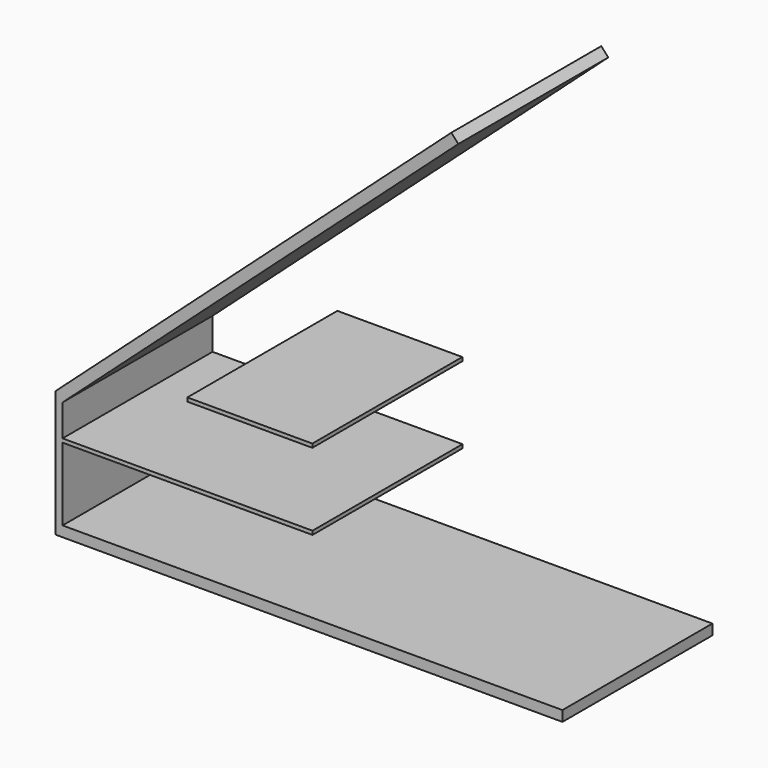
from build123d import *

# Parameters (mm, degrees)
F1_DEPTH = 900
F2_W     = 600
F2_H     = 18
F3_DEPTH = 900
F4_DEPTH = 900
F5_DEPTH = 900


with BuildPart() as f1:
    # F0 (on Front) → F1 (new body)
    with BuildSketch(Plane.XZ):
        Polygon((-1900, 520), (0, 2230), (-33.4482365811, 2267.1647073124), (-1933.4482365811, 557.1647073124), align=None)
        Polygon((-1900, -50), (-1900, 0), (-1900, 520), (-1933.4482365811, 557.1647073124), (-1933.4482365811, -50), align=None)
        Polygon((500, 0), (0, 0), (-1900, 0), (-1900, -50), (500, -50), align=None)
    extrude(amount=F1_DEPTH)

    # F2 (on face) → F3 (join)
    with BuildSketch(Plane.XZ):
        with Locations((-1600, 359)):
            Rectangle(F2_W, F2_H)
    extrude(amount=F3_DEPTH)

    # F2 (on face) → F4 (join)
    with BuildSketch(Plane.XZ):
        with Locations((-1000, 359)):
            Rectangle(F2_W, F2_H)
    extrude(amount=F4_DEPTH)


with BuildPart() as f5:
    # F2 (on face) → F5 (new body)
    with BuildSketch(Plane.XZ):
        with Locations((-1000.7498145103, 727)):
            Rectangle(F2_W, F2_H)
    extrude(amount=F5_DEPTH)


solid = Compound([f1.part, f5.part])
